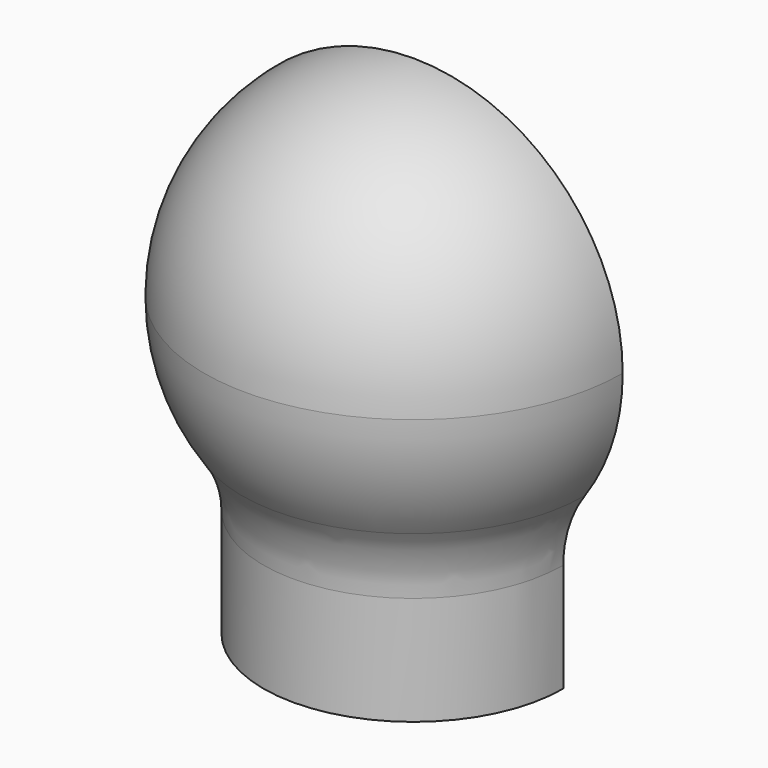
from build123d import *

# Parameters (mm, degrees)
F1_ANGLE = 180
F2_R     = 4


with BuildPart() as f1:
    # F0 (on Front) → F1 (revolve)
    with BuildSketch(Plane.XZ):
        with BuildLine():
            ThreePointArc((0, 16.6), (4.6669047558, 14.6669047558), (6.6, 10))
            ThreePointArc((6.6, 10), (6.2004032127, 7.7383634244), (5.05, 5.750588276))
            Line((5.05, 5.750588276), (5.05, 5.0806504495))
            ThreePointArc((5.05, 5.0806504495), (6.5308881479, 7.3448163905), (7.05, 10))
            ThreePointArc((7.05, 10), (4.9851028074, 14.9851028074), (0, 17.05))
            Line((0, 17.05), (0, 16.6))
        make_face()
        with BuildLine():
            Line((5.05, 5.0806504495), (5.05, 5.750588276))
            ThreePointArc((5.05, 5.750588276), (2.7851285986, 4.016434283), (0, 3.4))
            Line((0, 3.4), (0, 2.95))
            ThreePointArc((0, 2.95), (2.740536961, 3.5044663679), (5.05, 5.0806504495))
        make_face()
        with BuildLine():
            Line((5.05, 0), (5.05, 5.0806504495))
            ThreePointArc((5.05, 5.0806504495), (2.740536961, 3.5044663679), (0, 2.95))
            Line((0, 2.95), (0, 0))
            Line((0, 0), (5.05, 0))
        make_face()
    revolve(axis=Axis((0, 0, 10), (0, 0, -1)), revolution_arc=F1_ANGLE)

    # F2
    f2_edges = [f1.edges().sort_by_distance(p)[0] for p in [
        (0, -5.05, 5.08065),
    ]]
    fillet(f2_edges, radius=F2_R)


solid = f1.part
